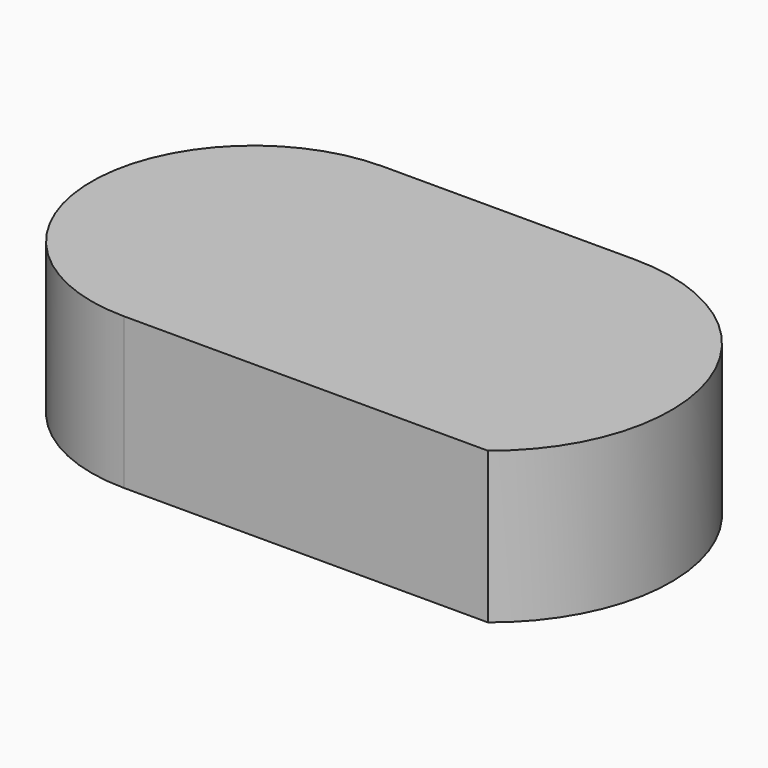
from build123d import *

# Parameters (mm, degrees)
F1_DEPTH = 25


with BuildPart() as f1:
    # F0 (on Top) → F1 (new body)
    with BuildSketch(Plane.XY):
        with BuildLine():
            ThreePointArc((0, -26.809133), (18.956919, -18.956919), (26.809133, 0))
            ThreePointArc((26.809133, 0), (18.956919, 18.956919), (0, 26.809133))
            ThreePointArc((0, 26.809133), (-26.809133, 0), (0, -26.809133))
        make_face()
        with BuildLine():
            ThreePointArc((0, 26.809133), (18.956919, 18.956919), (26.809133, 0))
            ThreePointArc((26.809133, 0), (18.956919, -18.956919), (0, -26.809133))
            Line((0, -26.809133), (60.2047, -26.809133))
            ThreePointArc((60.2047, -26.809133), (69.978149, 6.618379), (41.601181, 26.809133))
            Line((41.601181, 26.809133), (0, 26.809133))
        make_face()
    extrude(amount=F1_DEPTH)


solid = f1.part
